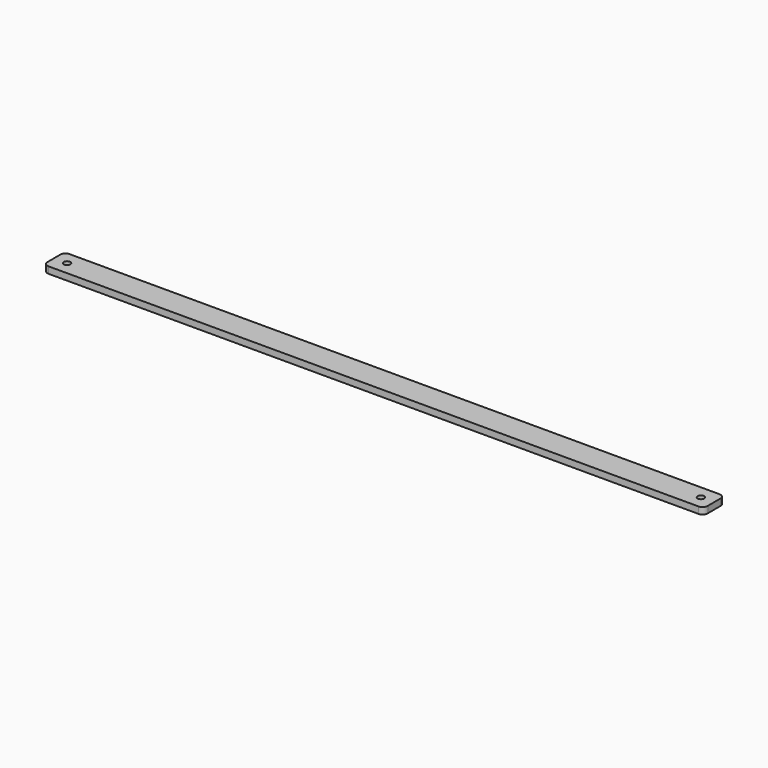
from build123d import *

# Parameters (mm, degrees)
F0_R     = 3.175
F1_DEPTH = 6.35


with BuildPart() as f1:
    # F0 (on Top) → F1 (new body)
    with BuildSketch(Plane.XY):
        with BuildLine():
            ThreePointArc((0, 5.08), (1.487898, 1.487898), (5.08, 0))
            Line((5.08, 0), (629.92, 0))
            ThreePointArc((629.92, 0), (633.512102, 1.487898), (635, 5.08))
            Line((635, 5.08), (635, 20.32))
            ThreePointArc((635, 20.32), (633.512102, 23.912102), (629.92, 25.4))
            Line((629.92, 25.4), (5.08, 25.4))
            ThreePointArc((5.08, 25.4), (1.487898, 23.912102), (0, 20.32))
            Line((0, 20.32), (0, 5.08))
        make_face()
        with Locations((12.7, 12.7)):
            Circle(F0_R, mode=Mode.SUBTRACT)
        with Locations((622.3, 12.7)):
            Circle(F0_R, mode=Mode.SUBTRACT)
    extrude(amount=-F1_DEPTH)


solid = f1.part
